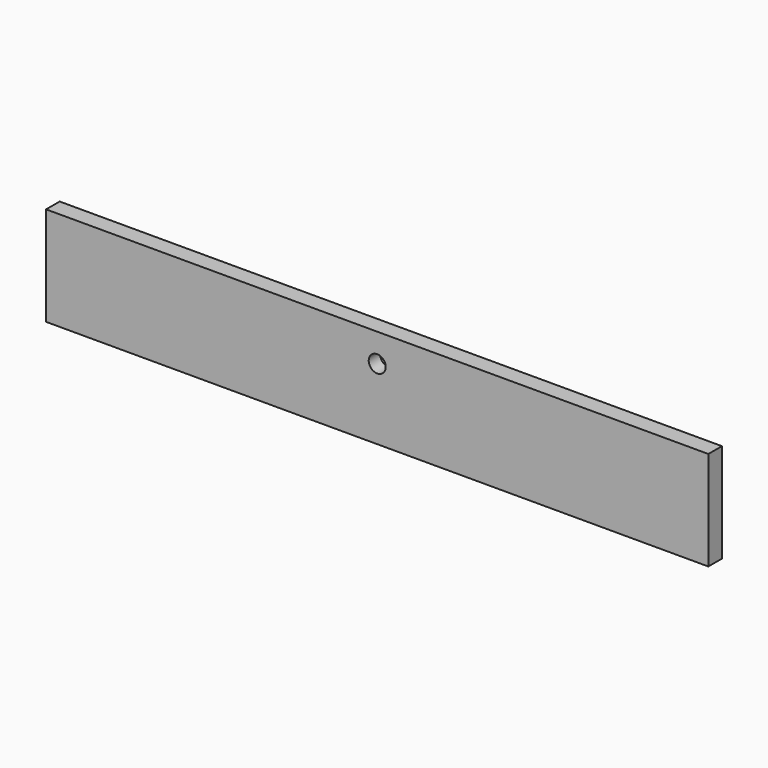
from build123d import *

# Parameters (mm, degrees)
F0_W     = 371.475
F0_H     = 55.5625
F0_R     = 12.7
F0_R_2   = 4.7625
F1_DEPTH = 9.525
F2_DEPTH = 1.5875


with BuildPart() as f1:
    # F0 (on Front) → F1 (new body)
    with BuildSketch(Plane.XZ):
        Rectangle(F0_W, F0_H)
        with Locations((0, 11.90625)):
            Circle(F0_R, mode=Mode.SUBTRACT)
        with Locations((0, 11.90625)):
            Circle(F0_R)
        with Locations((0, 11.90625)):
            Circle(F0_R_2, mode=Mode.SUBTRACT)
    extrude(amount=F1_DEPTH)

    # F0 (on Front) → F2 (cut)
    with BuildSketch(Plane.XZ):
        with Locations((0, 11.90625)):
            Circle(F0_R)
        with Locations((0, 11.90625)):
            Circle(F0_R_2, mode=Mode.SUBTRACT)
    extrude(amount=F2_DEPTH, mode=Mode.SUBTRACT)


solid = f1.part
